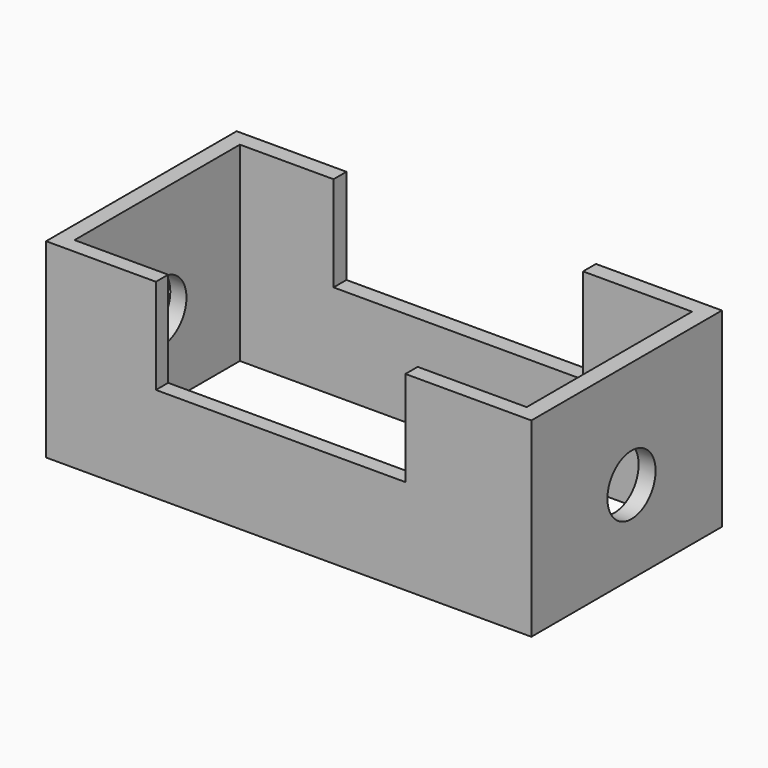
from build123d import *

# Parameters (mm, degrees)
F0_W     = 66.549368
F0_H     = 4.092034
F0_H_2   = 4.307404
F1_DEPTH = 25.4
F2_DEPTH = 50.8
F3_R     = 8.033842
F4_DEPTH = 131.064


with BuildPart() as f1:
    # F0 (on Top) → F1 (new body)
    with BuildSketch(Plane.XY):
        with Locations((-0.21537, -31.337576)):
            Rectangle(F0_W, F0_H)
        Polygon((-62.780388, 30.150594), (-62.780388, -33.383593), (-33.490054, -33.383593), (-33.490054, -29.291559), (-58.472987, -29.291559), (-58.472987, 25.84319), (-33.490054, 25.84319), (-33.490054, 30.150594), align=None)
        with Locations((-0.21537, 27.996892)):
            Rectangle(F0_W, F0_H_2)
        Polygon((33.059314, -29.291559), (33.059314, -33.383593), (66.657059, -33.383593), (66.657059, 30.150594), (33.059314, 30.150594), (33.059314, 25.84319), (62.134281, 25.84319), (62.134281, -29.291559), align=None)
    extrude(amount=F1_DEPTH)

    # F0 (on Top) → F2 (join)
    with BuildSketch(Plane.XY):
        Polygon((-62.780388, 30.150594), (-62.780388, -33.383593), (-33.490054, -33.383593), (-33.490054, -29.291559), (-58.472987, -29.291559), (-58.472987, 25.84319), (-33.490054, 25.84319), (-33.490054, 30.150594), align=None)
        Polygon((33.059314, -29.291559), (33.059314, -33.383593), (66.657059, -33.383593), (66.657059, 30.150594), (33.059314, 30.150594), (33.059314, 25.84319), (62.134281, 25.84319), (62.134281, -29.291559), align=None)
    extrude(amount=F2_DEPTH)

    # F3 (on face) → F4 (cut)
    with BuildSketch(Plane.YZ.offset(66.657059)):
        with Locations((0, 22.118356)):
            Circle(F3_R)
    extrude(amount=-F4_DEPTH, mode=Mode.SUBTRACT)


solid = f1.part
